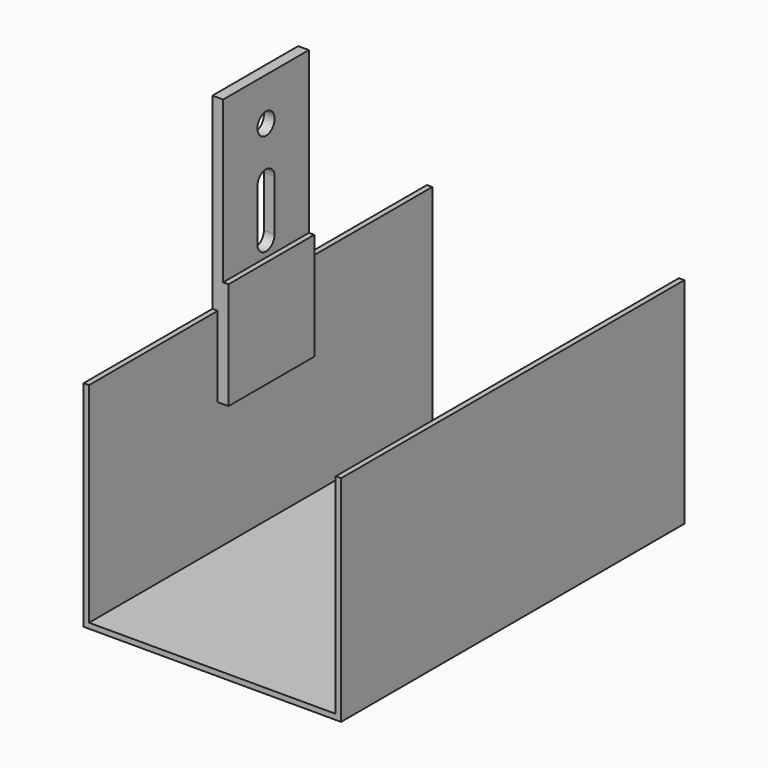
from build123d import *

# Parameters (mm, degrees)
F0_W          = 1
F0_H          = 1
F0_H_2        = 39
F1_DEPTH      = 40
F1_DEPTH_BACK = 40
F2_W          = 2
F2_H          = 15
F2_H_2        = 30
F3_DEPTH      = 10
F3_DEPTH_BACK = 10
F4_R          = 2
F5_DEPTH      = 10


with BuildPart() as f1:
    # F0 (on Front) → F1 (new body, two sides)
    with BuildSketch(Plane.XZ) as f1_sk:
        Polygon((-23, 0), (0, 0), (23, 0), (23, 1), (-23, 1), align=None)
        with Locations((-23.5, 0.5)):
            Rectangle(F0_W, F0_H)
        with Locations((23.5, 0.5)):
            Rectangle(F0_W, F0_H)
        with Locations((-23.5, 20.5)):
            Rectangle(F0_W, F0_H_2)
        with Locations((23.5, 20.5)):
            Rectangle(F0_W, F0_H_2)
    extrude(amount=F1_DEPTH)
    extrude(f1_sk.sketch, amount=-F1_DEPTH_BACK)


with BuildPart() as f3:
    # F2 (on Front) → F3 (new body, two sides)
    with BuildSketch(Plane.XZ) as f3_sk:
        Polygon((-24, 40), (-23, 40), (-21, 40), (-21, 45), (-22, 45), (-24, 45), align=None)
        with Locations((-22, 32.5)):
            Rectangle(F2_W, F2_H)
        with Locations((-23, 60)):
            Rectangle(F2_W, F2_H_2)
    extrude(amount=F3_DEPTH)
    extrude(f3_sk.sketch, amount=-F3_DEPTH_BACK)

    # F4 (on face) → F5 (cut)
    with BuildSketch(Plane(origin=(-24, 0, 0), x_dir=(0, -1, 0), z_dir=(-1, 0, 0))):
        with Locations((0, 67)):
            Circle(F4_R)
        with BuildLine():
            Line((2, 48), (2, 57.5))
            ThreePointArc((2, 57.5), (0, 59.5), (-2, 57.5))
            Line((-2, 57.5), (-2, 48))
            ThreePointArc((-2, 48), (0, 46), (2, 48))
        make_face()
    extrude(amount=-F5_DEPTH, mode=Mode.SUBTRACT)


solid = Compound([f1.part, f3.part])
